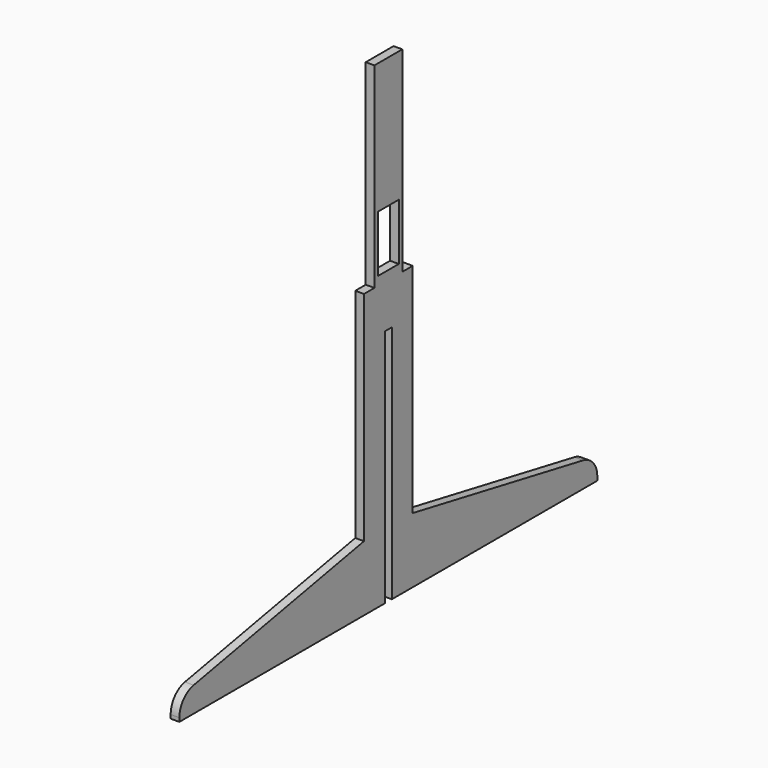
from build123d import *

# Parameters (mm, degrees)
F1_DEPTH      = 1
F1_DEPTH_BACK = 1
F2_W          = 6
F2_H          = 13
F3_DEPTH      = 2
F3_DEPTH_BACK = 2
F4_R          = 5


with BuildPart() as f1:
    # F0 (on Right) → F1 (new body, two sides)
    with BuildSketch(Plane.YZ) as f1_sk:
        Polygon((-60, 5), (-60, 0), (-1, 0), (-1, 55), (1, 55), (1, 0), (60, 0), (60, 5), (7, 15), (7, 65), (4, 65), (4, 110), (-4, 110), (-4, 65), (-7, 65), (-7, 15), align=None)
    extrude(amount=F1_DEPTH)
    extrude(f1_sk.sketch, amount=-F1_DEPTH_BACK)

    # F2 (on face) → F3 (cut, two sides)
    with BuildSketch(Plane.YZ.offset(1)) as f3_sk:
        with Locations((0, 73.5)):
            Rectangle(F2_W, F2_H)
    extrude(amount=-F3_DEPTH, mode=Mode.SUBTRACT)
    extrude(f3_sk.sketch, amount=-F3_DEPTH_BACK, mode=Mode.SUBTRACT)

    # F4
    f4_edges = [f1.edges().sort_by_distance(p)[0] for p in [
        (0, -60, 5),
        (0, 60, 5),
    ]]
    fillet(f4_edges, radius=F4_R)


solid = f1.part
